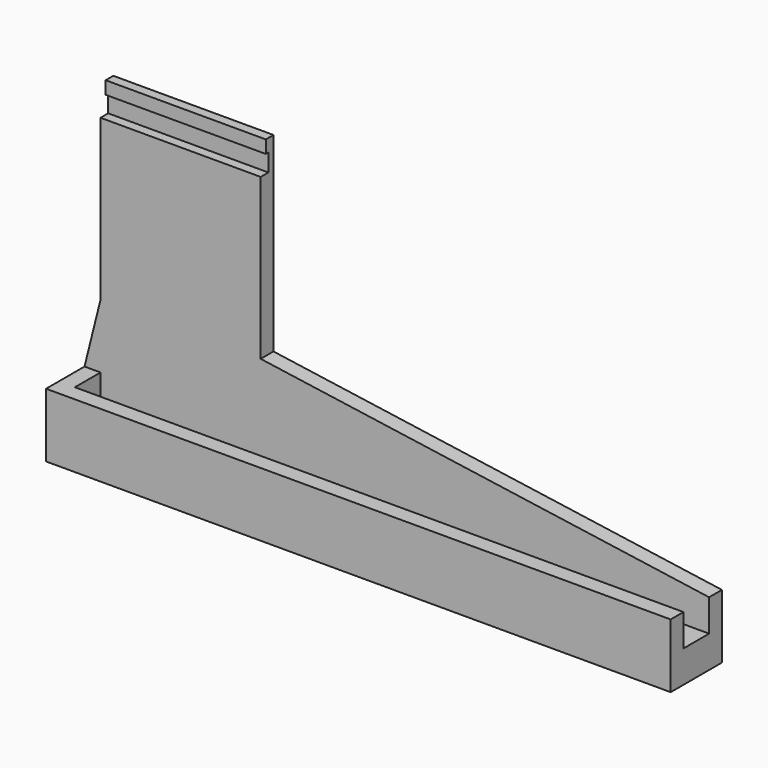
from build123d import *

# Parameters (mm, degrees)
F0_W      = 190
F0_H      = 5
F1_DEPTH  = 20
F2_W      = 190
F2_H      = 10
F3_DEPTH  = 10
F4_W      = 50
F4_H      = 5
F5_DEPTH  = 70
F7_DEPTH  = 5
F8_W      = 50
F8_H      = 2
F9_DEPTH  = 5.5
F10_W     = 50
F10_H     = 3
F11_DEPTH = 4


with BuildPart() as f1:
    # F0 (on Top) → F1 (new body)
    with BuildSketch(Plane.XY):
        Polygon((0, 20), (0, 0), (5, 0), (5, 5), (5, 15), (5, 20), align=None)
        with Locations((100, 2.5)):
            Rectangle(F0_W, F0_H)
        with Locations((100, 17.5)):
            Rectangle(F0_W, F0_H)
    extrude(amount=F1_DEPTH)

    # F2 (on Top) → F3 (join)
    with BuildSketch(Plane.XY):
        with Locations((100, 10)):
            Rectangle(F2_W, F2_H)
    extrude(amount=F3_DEPTH)

    # F4 (on face) → F5 (join)
    with BuildSketch(Plane.XY.offset(20)):
        with Locations((30, 17.5)):
            Rectangle(F4_W, F4_H)
    extrude(amount=F5_DEPTH)

    # F6 (on face) → F7 (join)
    with BuildSketch(Plane(origin=(0, 20, 0), x_dir=(-1, 0, 0), z_dir=(0, 1, 0))):
        Polygon((-5, 20), (0, 20), (-5, 40), align=None)
        Polygon((-195, 20), (-55, 20), (-55, 40), align=None)
    extrude(amount=-F7_DEPTH)

    # F8 (on face) → F9 (join)
    with BuildSketch(Plane.XY.offset(90)):
        with Locations((30, 19)):
            Rectangle(F8_W, F8_H)
    extrude(amount=F9_DEPTH)

    # F10 (on face) → F11 (join)
    with BuildSketch(Plane.XY.offset(95.5)):
        with Locations((30, 18.5)):
            Rectangle(F10_W, F10_H)
    extrude(amount=F11_DEPTH)


solid = f1.part
